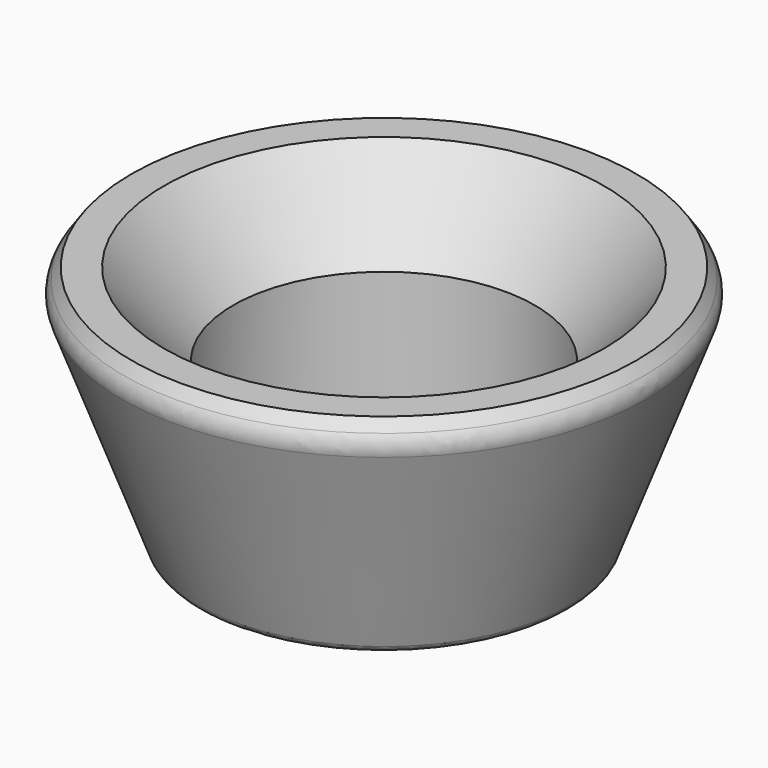
from build123d import *

# Parameters (mm, degrees)
F2_SIZE = 2
F3_R    = 2
F4_SIZE = 1
F5_R    = 1


with BuildPart() as f1:
    # F0 (on Front) → F1 (revolve)
    with BuildSketch(Plane.XZ):
        Polygon((15, 15), (15, 0), (17, 0), (25.4278760969, 22.6604444312), (20.4278760969, 22.6604444312), (14, 15), align=None)
    revolve(axis=Axis((0, 0, 7.5), (0, 0, 1)))

    # F2
    f2_edges = [f1.edges().sort_by_distance(p)[0] for p in [
        (-25.427876, 0, 22.660444),
    ]]
    chamfer(f2_edges, length=F2_SIZE)

    # F3
    f3_edges = [f1.edges().sort_by_distance(p)[0] for p in [
        (-24.730693, 0, 20.785895),
    ]]
    fillet(f3_edges, radius=F3_R)

    # F4
    f4_edges = [f1.edges().sort_by_distance(p)[0] for p in [
        (-15, 0, 0),
    ]]
    chamfer(f4_edges, length=F4_SIZE)

    # F5
    f5_edges = [f1.edges().sort_by_distance(p)[0] for p in [
        (-17, 0, 0),
    ]]
    fillet(f5_edges, radius=F5_R)


solid = f1.part
